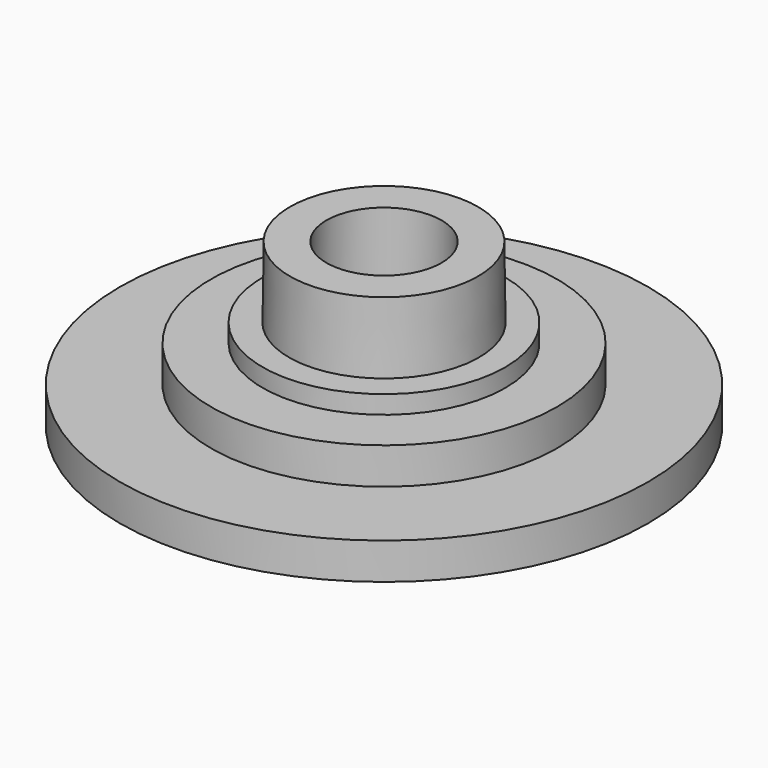
from build123d import *

# Parameters (mm, degrees)
F2_R      = 3.937
F2_R_2    = 2.667
F3_DEPTH  = 2.794
F4_R      = 5.08
F5_DEPTH  = 0.762
F6_R      = 7.239
F7_DEPTH  = 1.524
F9_R      = 11.049
F10_DEPTH = 1.524


with BuildPart() as f1:
    # F0 (on Right) → F1 (revolve)
    with BuildSketch(Plane.YZ):
        Polygon((2.4085466543, 2.8091624185), (2.4085466543, 0), (3.9751, 0), (3.937, 2.9743337072), (2.4085466543, 2.9743337072), align=None)
    revolve(axis=Axis((0, 0, 1.4871668536), (0, 0, 1)))



with BuildPart() as f3:
    # F2 (on Top) → F3 (new body)
    with BuildSketch(Plane.XY):
        Circle(F2_R)
        Circle(F2_R_2, mode=Mode.SUBTRACT)
    extrude(amount=F3_DEPTH)


with BuildPart() as f5:
    # F4 (on face) → F5 (new body)
    with BuildSketch(Plane(origin=(0, 0, 0), x_dir=(1, 0, 0), z_dir=(0, 0, -1))):
        Circle(F4_R)
    extrude(amount=F5_DEPTH)

    # F6 (on face) → F7 (join)
    with BuildSketch(Plane(origin=(0, 0, -0.762), x_dir=(1, 0, 0), z_dir=(0, 0, -1))):
        Circle(F6_R)
    extrude(amount=F7_DEPTH)


with BuildPart() as f1_1:
    add(f1.part)

    add(f5.part)  # F10 merges F5
    # F9 (on face) → F10 (join)
    with BuildSketch(Plane(origin=(0, 0, -2.286), x_dir=(1, 0, 0), z_dir=(0, 0, -1))):
        Circle(F9_R)
    extrude(amount=F10_DEPTH)


solid = f1_1.part
